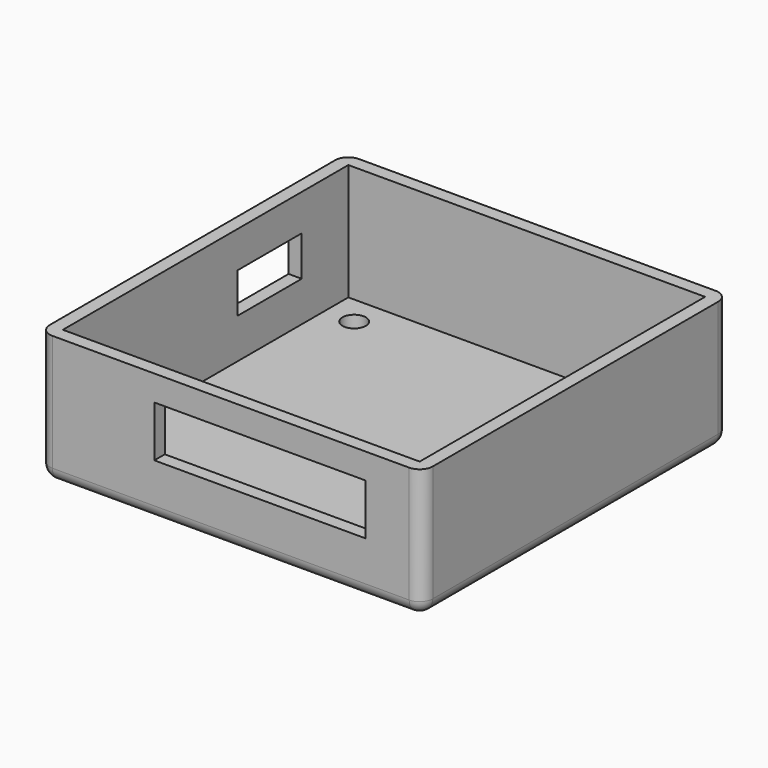
from build123d import *

# Parameters (mm, degrees)
SKETCH_W        = 49
SKETCH_H        = 49
PAD_DEPTH       = 16
THICKNESS_T     = 1.8
SKETCH001_R     = 1.6
POCKET_DEPTH    = 1.801
SKETCH002_W     = 29
SKETCH002_H     = 7
POCKET001_DEPTH = 1.8
SKETCH003_W     = 11
SKETCH003_H     = 5.5
POCKET002_DEPTH = 1.8


with BuildPart() as part:
    # Sketch → Pad (new body)
    with BuildSketch(Plane.XY):
        with Locations((24.5, 24.5)):
            Rectangle(SKETCH_W, SKETCH_H)
    extrude(amount=PAD_DEPTH)

    # Thickness
    thickness_openings = [part.faces().sort_by_distance(p)[0] for p in [
        (24.5, 24.5, 16),
    ]]
    offset(amount=THICKNESS_T, openings=thickness_openings)

    # Sketch001 → Pocket (cut, through all)
    with BuildSketch(Plane.XY):
        with Locations((4, 45)):
            Circle(SKETCH001_R)
        with Locations((4, 4)):
            Circle(SKETCH001_R)
        with Locations((45, 45)):
            Circle(SKETCH001_R)
        with Locations((45, 4)):
            Circle(SKETCH001_R)
    extrude(amount=-POCKET_DEPTH, mode=Mode.SUBTRACT)

    # Sketch002 → Pocket001 (cut)
    with BuildSketch(Plane.XZ.offset(1.8)):
        with Locations((28.5, 9)):
            Rectangle(SKETCH002_W, SKETCH002_H)
    extrude(amount=-POCKET001_DEPTH, mode=Mode.SUBTRACT)

    # Sketch003 → Pocket002 (cut)
    with BuildSketch(Plane(origin=(-1.8, 0, 0), x_dir=(0, -1, 0), z_dir=(-1, 0, 0))):
        with Locations((-35.5, 8.25)):
            Rectangle(SKETCH003_W, SKETCH003_H)
    extrude(amount=-POCKET002_DEPTH, mode=Mode.SUBTRACT)


solid = part.part
